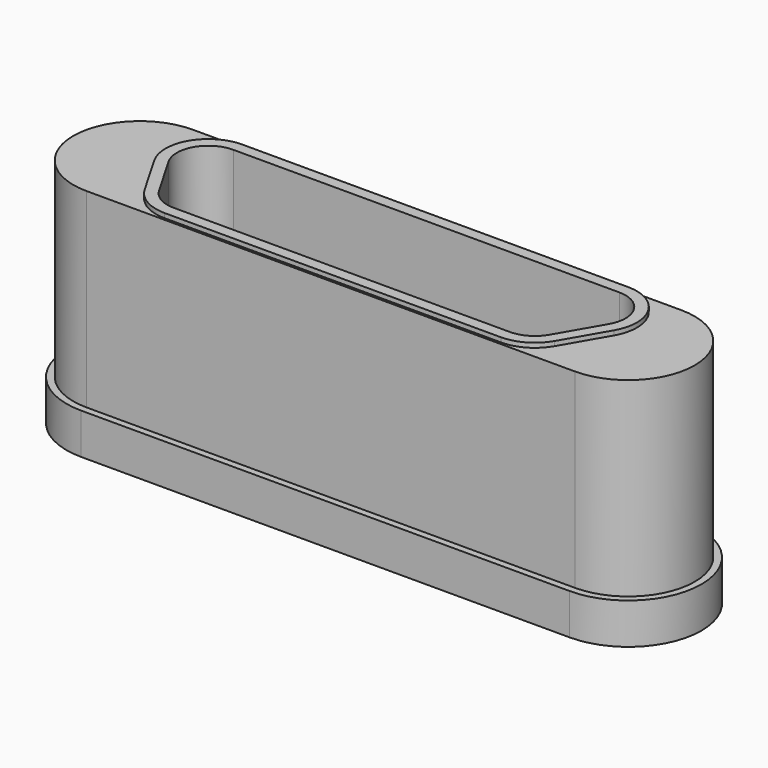
from build123d import *

# Parameters (mm, degrees)
F0_R     = 2.7686
F1_DEPTH = 13.208
F2_DEPTH = 10.922
F3_DEPTH = 0.254
F4_DEPTH = 4.953
F5_R     = 2.7686
F6_DEPTH = 6.731
F7_DEPTH = 0.381


with BuildPart() as f1:
    # F0 (on Top) → F1 (new body)
    with BuildSketch(Plane.XY):
        with BuildLine():
            Line((-13.6779, -4.1021), (13.6779, -4.1021))
            ThreePointArc((13.6779, -4.1021), (17.78, 0), (13.6779, 4.1021))
            Line((13.6779, 4.1021), (-13.6779, 4.1021))
            ThreePointArc((-13.6779, 4.1021), (-17.78, 0), (-13.6779, -4.1021))
        make_face()
        with BuildLine():
            ThreePointArc((-13.6779, -3.7211), (-17.399, 0), (-13.6779, 3.7211))
            Line((-13.6779, 3.7211), (13.6779, 3.7211))
            ThreePointArc((13.6779, 3.7211), (17.399, 0), (13.6779, -3.7211))
            Line((13.6779, -3.7211), (-13.6779, -3.7211))
        make_face(mode=Mode.SUBTRACT)
        with BuildLine():
            Line((13.6779, 3.7211), (-13.6779, 3.7211))
            ThreePointArc((-13.6779, 3.7211), (-17.399, 0), (-13.6779, -3.7211))
            Line((-13.6779, -3.7211), (13.6779, -3.7211))
            ThreePointArc((13.6779, -3.7211), (17.399, 0), (13.6779, 3.7211))
        make_face()
        with BuildLine():
            ThreePointArc((-12.875422, 0.0127), (-12.875422, 2.4003), (-10.8077, 3.5941))
            Line((-10.8077, 3.5941), (10.8077, 3.5941))
            ThreePointArc((10.8077, 3.5941), (12.875422, 2.4003), (12.875422, 0.0127))
            Line((12.875422, 0.0127), (11.482276, -2.4003))
            ThreePointArc((11.482276, -2.4003), (10.608354, -3.274222), (9.414554, -3.5941))
            Line((9.414554, -3.5941), (-9.414554, -3.5941))
            ThreePointArc((-9.414554, -3.5941), (-10.608354, -3.274222), (-11.482276, -2.4003))
            Line((-11.482276, -2.4003), (-12.875422, 0.0127))
        make_face(mode=Mode.SUBTRACT)
        with BuildLine():
            Line((10.8077, 3.5941), (-10.8077, 3.5941))
            ThreePointArc((-10.8077, 3.5941), (-12.875422, 2.4003), (-12.875422, 0.0127))
            Line((-12.875422, 0.0127), (-11.482276, -2.4003))
            ThreePointArc((-11.482276, -2.4003), (-10.608354, -3.274222), (-9.414554, -3.5941))
            Line((-9.414554, -3.5941), (9.414554, -3.5941))
            ThreePointArc((9.414554, -3.5941), (10.608354, -3.274222), (11.482276, -2.4003))
            Line((11.482276, -2.4003), (12.875422, 0.0127))
            ThreePointArc((12.875422, 0.0127), (12.875422, 2.4003), (10.8077, 3.5941))
        make_face()
        with BuildLine():
            ThreePointArc((-12.325496, 0.3302), (-12.325496, 2.0828), (-10.8077, 2.9591))
            Line((-10.8077, 2.9591), (10.8077, 2.9591))
            ThreePointArc((10.8077, 2.9591), (12.325496, 2.0828), (12.325496, 0.3302))
            Line((12.325496, 0.3302), (10.93235, -2.0828))
            ThreePointArc((10.93235, -2.0828), (10.290854, -2.724296), (9.414554, -2.9591))
            Line((9.414554, -2.9591), (-9.414554, -2.9591))
            ThreePointArc((-9.414554, -2.9591), (-10.290854, -2.724296), (-10.93235, -2.0828))
            Line((-10.93235, -2.0828), (-12.325496, 0.3302))
        make_face(mode=Mode.SUBTRACT)
        with BuildLine():
            Line((10.8077, 2.9591), (-10.8077, 2.9591))
            ThreePointArc((-10.8077, 2.9591), (-12.325496, 2.0828), (-12.325496, 0.3302))
            Line((-12.325496, 0.3302), (-10.93235, -2.0828))
            ThreePointArc((-10.93235, -2.0828), (-10.290854, -2.724296), (-9.414554, -2.9591))
            Line((-9.414554, -2.9591), (9.414554, -2.9591))
            ThreePointArc((9.414554, -2.9591), (10.290854, -2.724296), (10.93235, -2.0828))
            Line((10.93235, -2.0828), (12.325496, 0.3302))
            ThreePointArc((12.325496, 0.3302), (12.325496, 2.0828), (10.8077, 2.9591))
        make_face()
        with Locations((-8.717981, 0)):
            Circle(F0_R, mode=Mode.SUBTRACT)
        with Locations((8.717981, 0)):
            Circle(F0_R, mode=Mode.SUBTRACT)
    extrude(amount=-F1_DEPTH)

    # F0 (on Top) → F2 (cut)
    with BuildSketch(Plane.XY):
        with BuildLine():
            Line((-13.6779, -4.1021), (13.6779, -4.1021))
            ThreePointArc((13.6779, -4.1021), (17.78, 0), (13.6779, 4.1021))
            Line((13.6779, 4.1021), (-13.6779, 4.1021))
            ThreePointArc((-13.6779, 4.1021), (-17.78, 0), (-13.6779, -4.1021))
        make_face()
        with BuildLine():
            ThreePointArc((-13.6779, -3.7211), (-17.399, 0), (-13.6779, 3.7211))
            Line((-13.6779, 3.7211), (13.6779, 3.7211))
            ThreePointArc((13.6779, 3.7211), (17.399, 0), (13.6779, -3.7211))
            Line((13.6779, -3.7211), (-13.6779, -3.7211))
        make_face(mode=Mode.SUBTRACT)
    extrude(amount=-F2_DEPTH, mode=Mode.SUBTRACT)

    # F0 (on Top) → F3 (cut)
    with BuildSketch(Plane.XY):
        with BuildLine():
            Line((13.6779, 3.7211), (-13.6779, 3.7211))
            ThreePointArc((-13.6779, 3.7211), (-17.399, 0), (-13.6779, -3.7211))
            Line((-13.6779, -3.7211), (13.6779, -3.7211))
            ThreePointArc((13.6779, -3.7211), (17.399, 0), (13.6779, 3.7211))
        make_face()
        with BuildLine():
            ThreePointArc((-12.875422, 0.0127), (-12.875422, 2.4003), (-10.8077, 3.5941))
            Line((-10.8077, 3.5941), (10.8077, 3.5941))
            ThreePointArc((10.8077, 3.5941), (12.875422, 2.4003), (12.875422, 0.0127))
            Line((12.875422, 0.0127), (11.482276, -2.4003))
            ThreePointArc((11.482276, -2.4003), (10.608354, -3.274222), (9.414554, -3.5941))
            Line((9.414554, -3.5941), (-9.414554, -3.5941))
            ThreePointArc((-9.414554, -3.5941), (-10.608354, -3.274222), (-11.482276, -2.4003))
            Line((-11.482276, -2.4003), (-12.875422, 0.0127))
        make_face(mode=Mode.SUBTRACT)
    extrude(amount=-F3_DEPTH, mode=Mode.SUBTRACT)

    # F0 (on Top) → F4 (cut)
    with BuildSketch(Plane.XY):
        with BuildLine():
            Line((10.8077, 2.9591), (-10.8077, 2.9591))
            ThreePointArc((-10.8077, 2.9591), (-12.325496, 2.0828), (-12.325496, 0.3302))
            Line((-12.325496, 0.3302), (-10.93235, -2.0828))
            ThreePointArc((-10.93235, -2.0828), (-10.290854, -2.724296), (-9.414554, -2.9591))
            Line((-9.414554, -2.9591), (9.414554, -2.9591))
            ThreePointArc((9.414554, -2.9591), (10.290854, -2.724296), (10.93235, -2.0828))
            Line((10.93235, -2.0828), (12.325496, 0.3302))
            ThreePointArc((12.325496, 0.3302), (12.325496, 2.0828), (10.8077, 2.9591))
        make_face()
        with Locations((-8.717981, 0)):
            Circle(F0_R, mode=Mode.SUBTRACT)
        with Locations((8.717981, 0)):
            Circle(F0_R, mode=Mode.SUBTRACT)
    extrude(amount=-F4_DEPTH, mode=Mode.SUBTRACT)

    # F5 (on face) → F6 (cut)
    with BuildSketch(Plane(origin=(0, 0, -13.208), x_dir=(1, 0, 0), z_dir=(0, 0, -1))):
        with BuildLine():
            ThreePointArc((-12.325496, -0.3302), (-12.325496, -2.0828), (-10.8077, -2.9591))
            Line((-10.8077, -2.9591), (10.8077, -2.9591))
            ThreePointArc((10.8077, -2.9591), (12.325496, -2.0828), (12.325496, -0.3302))
            Line((12.325496, -0.3302), (10.93235, 2.0828))
            ThreePointArc((10.93235, 2.0828), (10.290854, 2.724296), (9.414554, 2.9591))
            Line((9.414554, 2.9591), (-9.414554, 2.9591))
            ThreePointArc((-9.414554, 2.9591), (-10.290854, 2.724296), (-10.93235, 2.0828))
            Line((-10.93235, 2.0828), (-12.325496, -0.3302))
        make_face()
        with Locations((-8.717981, 0)):
            Circle(F5_R, mode=Mode.SUBTRACT)
        with Locations((8.717981, 0)):
            Circle(F5_R, mode=Mode.SUBTRACT)
    extrude(amount=-F6_DEPTH, mode=Mode.SUBTRACT)

    # F5 (on face) → F7 (cut)
    with BuildSketch(Plane(origin=(0, 0, -13.208), x_dir=(1, 0, 0), z_dir=(0, 0, -1))):
        with BuildLine():
            ThreePointArc((13.6779, -3.7211), (17.399, 0), (13.6779, 3.7211))
            Line((13.6779, 3.7211), (-13.6779, 3.7211))
            ThreePointArc((-13.6779, 3.7211), (-17.399, 0), (-13.6779, -3.7211))
            Line((-13.6779, -3.7211), (13.6779, -3.7211))
        make_face()
        with BuildLine():
            Line((10.8077, -2.9591), (-10.8077, -2.9591))
            ThreePointArc((-10.8077, -2.9591), (-12.325496, -2.0828), (-12.325496, -0.3302))
            Line((-12.325496, -0.3302), (-10.93235, 2.0828))
            ThreePointArc((-10.93235, 2.0828), (-10.290854, 2.724296), (-9.414554, 2.9591))
            Line((-9.414554, 2.9591), (9.414554, 2.9591))
            ThreePointArc((9.414554, 2.9591), (10.290854, 2.724296), (10.93235, 2.0828))
            Line((10.93235, 2.0828), (12.325496, -0.3302))
            ThreePointArc((12.325496, -0.3302), (12.325496, -2.0828), (10.8077, -2.9591))
        make_face(mode=Mode.SUBTRACT)
    extrude(amount=-F7_DEPTH, mode=Mode.SUBTRACT)


solid = f1.part
